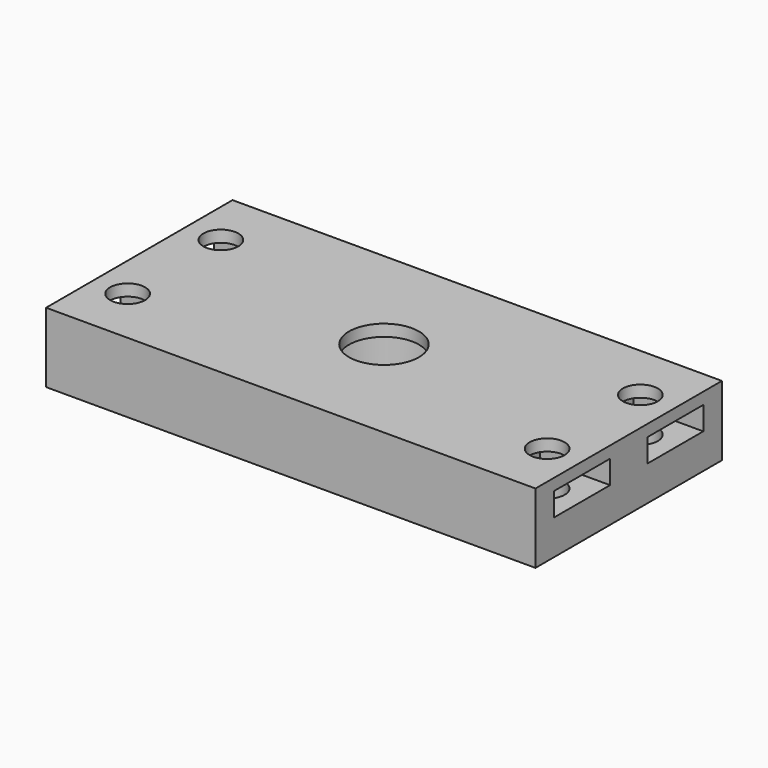
from build123d import *

# Parameters (mm, degrees)
CYLINDER1707_R     = 1.5
CYLINDER1707_DEPTH = 60
CYLINDER1708_R     = 1.5
CYLINDER1708_DEPTH = 60
CYLINDER1704_R     = 1.5
CYLINDER1704_DEPTH = 60
CYLINDER1705_R     = 1.5
CYLINDER1705_DEPTH = 60
BOX662_W           = 6
BOX662_H           = 6
BOX662_DEPTH       = 2
BOX664_W           = 6
BOX664_H           = 6
BOX664_DEPTH       = 2
BOX663_W           = 6
BOX663_H           = 6
BOX663_DEPTH       = 2
BOX661_W           = 6
BOX661_H           = 6
BOX661_DEPTH       = 2
CYLINDER1700_R     = 5
CYLINDER1700_DEPTH = 5
CYLINDER1699_R     = 3
CYLINDER1699_DEPTH = 48
BOX660_W           = 42
BOX660_H           = 20
BOX660_DEPTH       = 6


with BuildPart() as obj1:
    # Cylinder1707 → Cylinder1707 (new body)
    with BuildSketch(Plane(origin=(18, 85, -57), x_dir=(1, 0, 0), z_dir=(0, 0, 1))):
        Circle(CYLINDER1707_R)
    extrude(amount=CYLINDER1707_DEPTH)


with BuildPart() as obj2:
    # Cylinder1708 → Cylinder1708 (new body)
    with BuildSketch(Plane(origin=(-18, 85, -57), x_dir=(1, 0, 0), z_dir=(0, 0, 1))):
        Circle(CYLINDER1708_R)
    extrude(amount=CYLINDER1708_DEPTH)


with BuildPart() as obj3:
    # Cylinder1704 → Cylinder1704 (new body)
    with BuildSketch(Plane(origin=(-18, 95, -57), x_dir=(1, 0, 0), z_dir=(0, 0, 1))):
        Circle(CYLINDER1704_R)
    extrude(amount=CYLINDER1704_DEPTH)


with BuildPart() as compound849:
    # Cylinder1705 → Cylinder1705 (new body)
    with BuildSketch(Plane(origin=(18, 95, -57), x_dir=(1, 0, 0), z_dir=(0, 0, 1))):
        Circle(CYLINDER1705_R)
    extrude(amount=CYLINDER1705_DEPTH)

    # Compound849: union obj1, obj2, obj3
    add(obj1.part)
    add(obj2.part)
    add(obj3.part)


with BuildPart() as krychle662:
    # Box662 → Box662 (new body)
    with BuildSketch(Plane(origin=(-21, 92, -56), x_dir=(1, 0, 0), z_dir=(0, 0, 1))):
        with Locations((3, 3)):
            Rectangle(BOX662_W, BOX662_H)
    extrude(amount=BOX662_DEPTH)


with BuildPart() as krychle664:
    # Box664 → Box664 (new body)
    with BuildSketch(Plane(origin=(15, 82, -56), x_dir=(1, 0, 0), z_dir=(0, 0, 1))):
        with Locations((3, 3)):
            Rectangle(BOX664_W, BOX664_H)
    extrude(amount=BOX664_DEPTH)


with BuildPart() as krychle663:
    # Box663 → Box663 (new body)
    with BuildSketch(Plane(origin=(15, 92, -56), x_dir=(1, 0, 0), z_dir=(0, 0, 1))):
        with Locations((3, 3)):
            Rectangle(BOX663_W, BOX663_H)
    extrude(amount=BOX663_DEPTH)


with BuildPart() as compound848:
    # Box661 → Box661 (new body)
    with BuildSketch(Plane(origin=(-21, 82, -56), x_dir=(1, 0, 0), z_dir=(0, 0, 1))):
        with Locations((3, 3)):
            Rectangle(BOX661_W, BOX661_H)
    extrude(amount=BOX661_DEPTH)

    # Compound848: union Krychle662, Krychle664, Krychle663
    add(krychle662.part)
    add(krychle664.part)
    add(krychle663.part)


with BuildPart() as compound848_1:
    # Compound848 placement: moved
    add(compound848.part.moved(Location((0, 0, 21))))


with BuildPart() as obj4:
    # Cylinder1700 → Cylinder1700 (new body)
    with BuildSketch(Plane(origin=(0, 90, -38), x_dir=(1, 0, 0), z_dir=(0, 0, 1))):
        Circle(CYLINDER1700_R)
    extrude(amount=CYLINDER1700_DEPTH)


with BuildPart() as obj5:
    # Cylinder1699 → Cylinder1699 (new body)
    with BuildSketch(Plane(origin=(0, 90, -55), x_dir=(1, 0, 0), z_dir=(0, 0, 1))):
        Circle(CYLINDER1699_R)
    extrude(amount=CYLINDER1699_DEPTH)


with BuildPart() as cut355:
    # Box660 → Box660 (new body)
    with BuildSketch(Plane(origin=(-21, 80, -38), x_dir=(1, 0, 0), z_dir=(0, 0, 1))):
        with Locations((21, 10)):
            Rectangle(BOX660_W, BOX660_H)
    extrude(amount=BOX660_DEPTH)

    # Cut347: cut obj5
    add(obj5.part, mode=Mode.SUBTRACT)

    # Cut346: cut obj4
    add(obj4.part, mode=Mode.SUBTRACT)

    # Cut349: cut Compound848
    add(compound848_1.part, mode=Mode.SUBTRACT)

    # Cut355: cut Compound849
    add(compound849.part, mode=Mode.SUBTRACT)


solid = cut355.part
